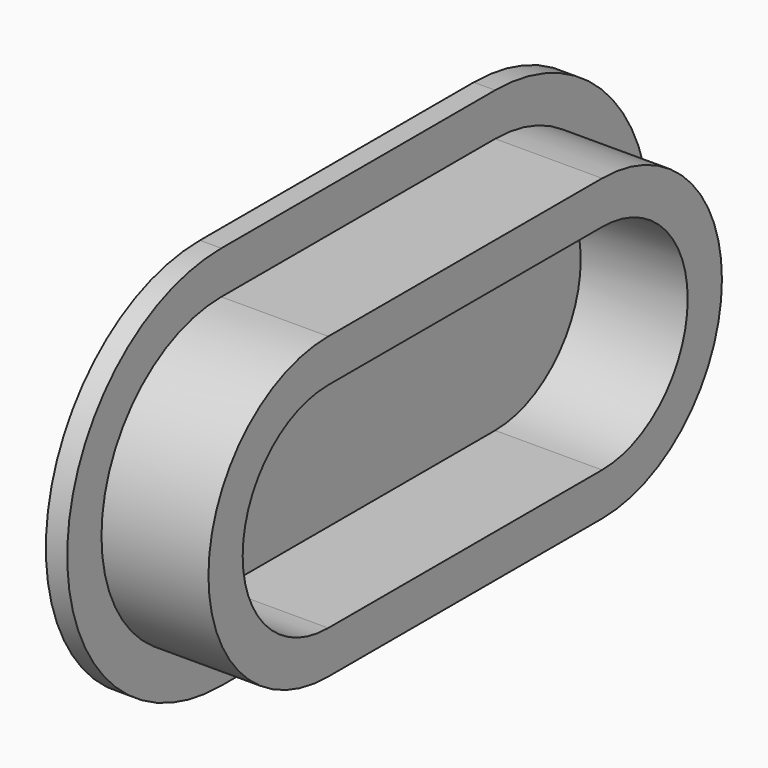
from build123d import *

# Parameters (mm, degrees)
EXTRUDE002_DEPTH = 0.5
EXTRUDE001_DEPTH = 3


with BuildPart() as extrude002:
    # Sketch002 → Extrude002 (new body)
    with BuildSketch(Plane.YZ):
        with BuildLine():
            Line((58.28, 3.78), (66.28, 3.78))
            ThreePointArc((66.28, 3.78), (70.780004, 8.28), (66.28, 12.78))
            Line((58.28, 12.78), (66.28, 12.78))
            ThreePointArc((58.28, 12.78), (53.779996, 8.28), (58.28, 3.78))
        make_face()
    extrude(amount=EXTRUDE002_DEPTH)


with BuildPart() as extrude002_1:
    # Extrude002 placement: moved
    add(extrude002.part.moved(Location((145, 0, 5))))


with BuildPart() as usb_tap:
    # Sketch001 → Extrude001 (new body)
    with BuildSketch(Plane.YZ):
        with BuildLine():
            Line((58.28, 4.78), (66.28, 4.78))
            ThreePointArc((66.28, 4.78), (69.779995, 8.28), (66.28, 11.78))
            Line((58.28, 11.78), (66.28, 11.78))
            ThreePointArc((58.28, 11.78), (54.779995, 8.28), (58.28, 4.78))
        make_face()
        with BuildLine():
            ThreePointArc((58.279995, 10.78), (55.779995, 8.28), (58.279995, 5.78))
            Line((58.279995, 5.78), (66.279995, 5.78))
            ThreePointArc((66.279995, 5.78), (68.779995, 8.28), (66.279995, 10.78))
            Line((58.279995, 10.78), (66.279995, 10.78))
        make_face(mode=Mode.SUBTRACT)
    extrude(amount=EXTRUDE001_DEPTH)


with BuildPart() as usb_tap_1:
    # Extrude001 placement: moved
    add(usb_tap.part.moved(Location((145, 0, 5))))

    # Fusion062: union Extrude002
    add(extrude002_1.part)


solid = usb_tap_1.part
